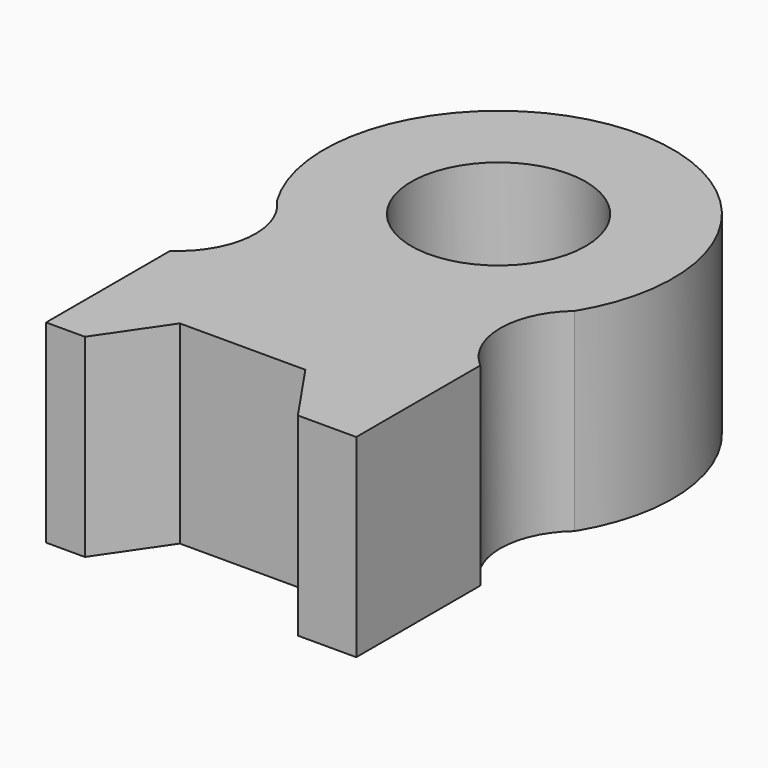
from build123d import *

# Parameters (mm, degrees)
F1_DEPTH = 1270
F2_R     = 571.5
F3_DEPTH = 1270.001


with BuildPart() as f1:
    # F0 (on Top) → F1 (new body)
    with BuildSketch(Plane.XY):
        with BuildLine():
            Line((0, 1016), (0, 0))
            Line((0, 0), (254, 0))
            Line((254, 0), (2032, 0))
            Line((2032, 0), (2032, 1016))
            ThreePointArc((2032, 1016), (1853.784563, 1402.401529), (2032, 1788.803059))
            ThreePointArc((2032, 1788.803059), (1056.470322, 3527.446281), (80.940645, 1788.803059))
            ThreePointArc((80.940645, 1788.803059), (220.195309, 1383.577773), (0, 1016))
        make_face()
    extrude(amount=F1_DEPTH)

    # F2 (on face) → F3 (cut, through all)
    with BuildSketch(Plane.XY.offset(1270)):
        Polygon((540.711392, 419.357339), (254, 0), (1649.638772, 0), (1362.92738, 419.357339), align=None)
        with Locations((1056.470322, 2384.446281)):
            Circle(F2_R)
    extrude(amount=-F3_DEPTH, mode=Mode.SUBTRACT)


solid = f1.part
